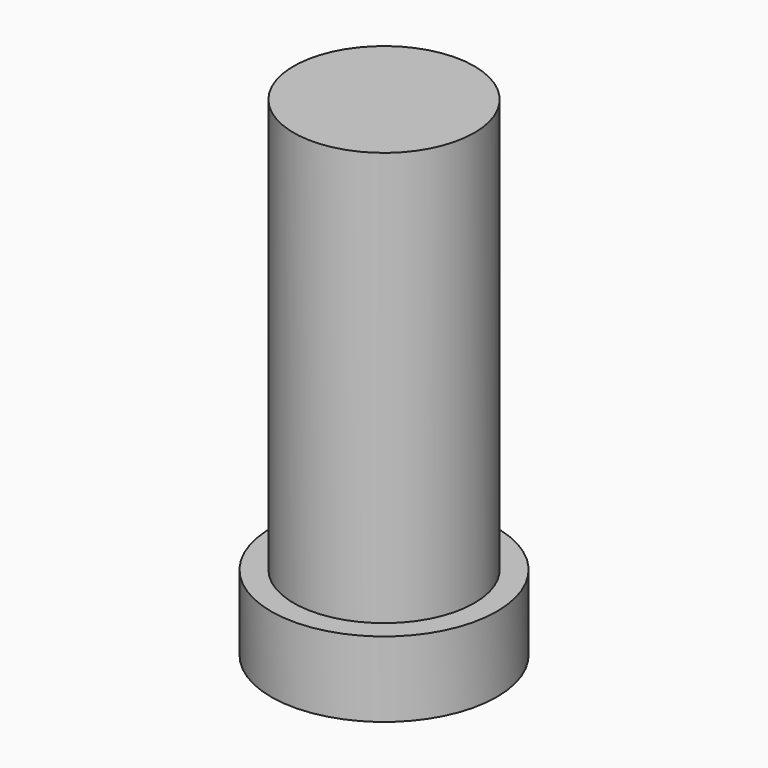
from build123d import *

# Parameters (mm, degrees)
SKETCH_R     = 1.5
PAD_DEPTH    = 1
SKETCH001_R  = 1.2
PAD001_DEPTH = 5.5


with BuildPart() as part:
    # Sketch → Pad (new body)
    with BuildSketch(Plane.XY):
        Circle(SKETCH_R)
    extrude(amount=PAD_DEPTH)

    # Sketch001 → Pad001 (new body)
    with BuildSketch(Plane.XY.offset(1)):
        Circle(SKETCH001_R)
    extrude(amount=PAD001_DEPTH)


solid = part.part
